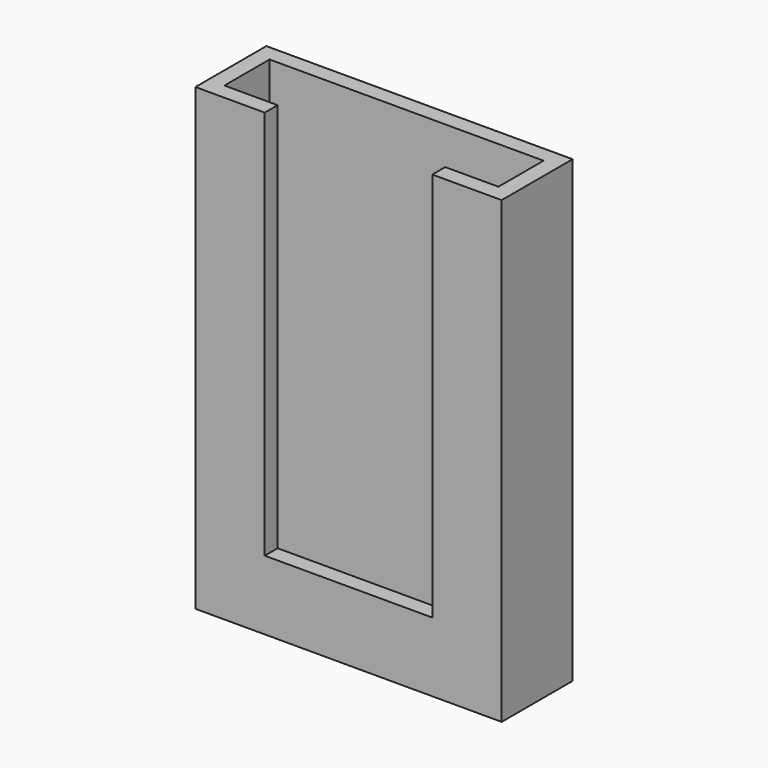
from build123d import *

# Parameters (mm, degrees)
F0_W     = 96.52
F0_H     = 144.78
F1_DEPTH = 27.94
F2_T     = -5.08
F3_W     = 52.832
F3_H     = 122.936
F4_DEPTH = 7.62


with BuildPart() as f1:
    # F0 (on Front) → F1 (new body)
    with BuildSketch(Plane.XZ):
        with Locations((-12.624722, -18.957326)):
            Rectangle(F0_W, F0_H)
    extrude(amount=F1_DEPTH)

    # F2
    f2_openings = [f1.faces().sort_by_distance(p)[0] for p in [
        (-12.624722, -13.97, 53.432674),
    ]]
    offset(amount=F2_T, openings=f2_openings)

    # F3 (on face) → F4 (cut)
    with BuildSketch(Plane.XZ.offset(27.94)):
        with Locations((-12.624722, -8.035326)):
            Rectangle(F3_W, F3_H)
    extrude(amount=-F4_DEPTH, mode=Mode.SUBTRACT)


solid = f1.part
